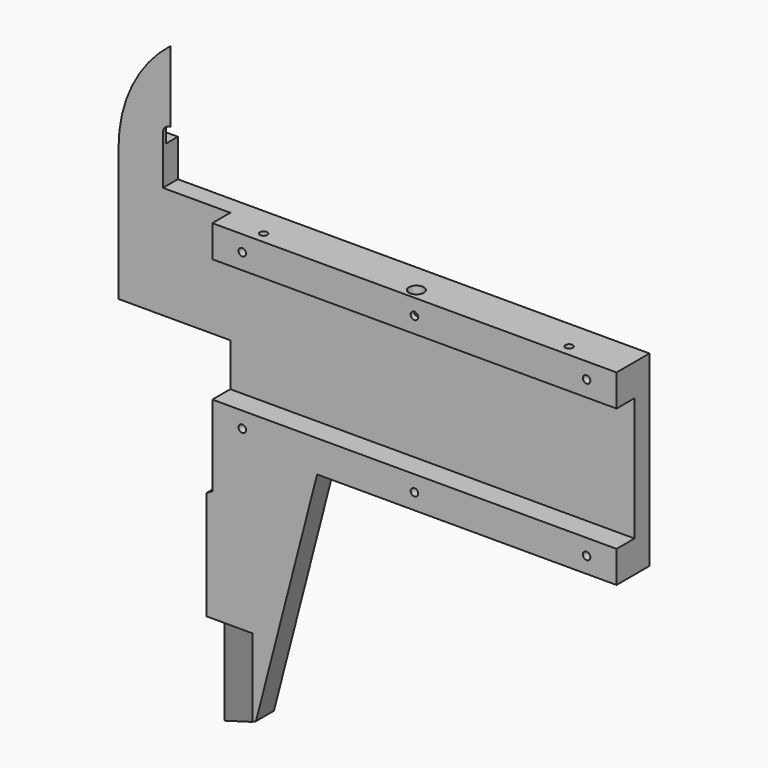
from build123d import *

# Parameters (mm, degrees)
F1_DEPTH  = 5.5
F3_DEPTH  = 3
F4_R      = 0.5
F5_DEPTH  = 1.125
F9_DEPTH  = 12.5
F10_W     = 14.8
F10_H     = 2.5
F11_DEPTH = 47
F13_DEPTH = 13.5
F14_R     = 0.5
F15_DEPTH = 4.25
F16_R     = 1
F17_DEPTH = 4.25


with BuildPart() as f1:
    # F0 (on Front) → F1 (new body)
    with BuildSketch(Plane.XZ):
        with BuildLine():
            Line((0, -12.5), (0, 12.5))
            Line((0, 12.5), (-63, 12.5))
            Line((-63, 12.5), (-63, 19))
            ThreePointArc((-63, 19), (-62.7071067812, 19.7071067812), (-62, 20))
            Line((-62, 20), (-62, 29.5))
            ThreePointArc((-62, 29.5), (-67.1049806801, 23.2039800052), (-68.93, 15.3065120566))
            Line((-68.93, 15.3065120566), (-68.93, -2.5))
            Line((-68.93, -2.5), (-54, -2.5))
            Line((-54, -2.5), (-54, -19.0381197846))
            Line((-54, -19.0381197846), (-54.8, -19.5))
            Line((-54.8, -19.5), (-54.8, -47.5))
            Line((-54.8, -47.5), (-48.1705947427, -44.1845815863))
            Line((-48.1705947427, -44.1845815863), (-40, -12.5))
            Line((-40, -12.5), (0, -12.5))
        make_face()
    extrude(amount=F1_DEPTH)

    # F2 (on face) → F3 (cut)
    with BuildSketch(Plane.XZ.offset(5.5)):
        Polygon((0, -8.25), (0, 8.25), (-54, 8.25), (-54, 31.9336503744), (-73.7788975239, 31.9336503744), (-73.7788975239, -2.5), (-54, -2.5), (-54, -8.25), align=None)
    extrude(amount=-F3_DEPTH, mode=Mode.SUBTRACT)

    # F4 (on face) → F5 (cut)
    with BuildSketch(Plane.XZ.offset(5.5)):
        with Locations((-4, 10.375)):
            Circle(F4_R)
        with Locations((-27, 10.375)):
            Circle(F4_R)
        with Locations((-50, 10.375)):
            Circle(F4_R)
        with Locations((-50, -10.375)):
            Circle(F4_R)
        with Locations((-27, -10.375)):
            Circle(F4_R)
        with Locations((-4, -10.375)):
            Circle(F4_R)
    extrude(amount=-F5_DEPTH, mode=Mode.SUBTRACT)

    # F8 (on offset) → F9 (cut)
    with BuildSketch(Plane.XY.offset(30)):
        Polygon((-67.1257596039, 0), (-62, -2.5), (-62, 0), align=None)
    extrude(amount=-F9_DEPTH, mode=Mode.SUBTRACT)

    # F10 (on face) → F11 (cut)
    with BuildSketch(Plane(origin=(0, 0, -12.5), x_dir=(1, 0, 0), z_dir=(0, 0, -1))):
        with Locations((-47.4, 1.25)):
            Rectangle(F10_W, F10_H)
    extrude(amount=F11_DEPTH, mode=Mode.SUBTRACT)

    # F12 (on plane+point) → F13 (cut)
    with BuildSketch(Plane(origin=(0, 0, -47.5), x_dir=(1, 0, 0), z_dir=(0, 0, -1))):
        Polygon((-48.6490884753, 5.5), (-54.8, 5.5), (-54.8, 2.5), align=None)
    extrude(amount=-F13_DEPTH, mode=Mode.SUBTRACT)

    # F14 (on face) → F15 (cut, through all)
    with BuildSketch(Plane.XY.offset(12.5)):
        with Locations((-7.54, -4)):
            Circle(F14_R)
        with Locations((-48.34, -4)):
            Circle(F14_R)
    extrude(amount=-F15_DEPTH, mode=Mode.SUBTRACT)

    # F16 (on face) → F17 (cut, through all)
    with BuildSketch(Plane.XY.offset(12.5)):
        with Locations((-27.94, -4)):
            Circle(F16_R)
    extrude(amount=-F17_DEPTH, mode=Mode.SUBTRACT)


solid = f1.part
